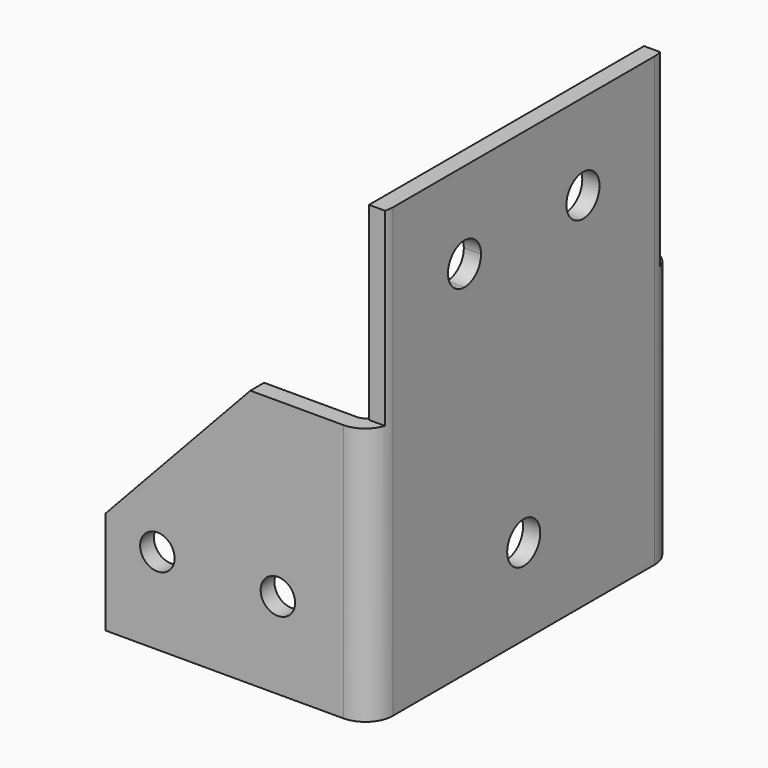
from build123d import *

# Parameters (mm, degrees)
F1_DEPTH  = 130
F3_DEPTH  = 25
F5_DEPTH  = 25
F6_R      = 5
F7_DEPTH  = 200
F8_R      = 6
F9_DEPTH  = 25
F11_DEPTH = 55
F12_R     = 6
F13_DEPTH = 25


with BuildPart() as f1:
    # F0 (on Top) → F1 (new body)
    with BuildSketch(Plane.XY):
        with BuildLine():
            Line((69, 0), (0, 0))
            Line((0, 0), (0, -5))
            Line((0, -5), (69, -5))
            ThreePointArc((69, -5), (71.1213203436, -5.8786796564), (72, -8))
            Line((72, -8), (72, -32.9701863229))
            Line((72, -32.9701863229), (72, -103))
            ThreePointArc((72, -103), (71.1213203436, -105.1213203436), (69, -106))
            Line((69, -106), (0, -106))
            Line((0, -106), (0, -111))
            Line((0, -111), (69, -111))
            ThreePointArc((69, -111), (74.6568542495, -108.6568542495), (77, -103))
            Line((77, -103), (77, -8))
            ThreePointArc((77, -8), (74.6568542495, -2.3431457505), (69, 0))
        make_face()
    extrude(amount=F1_DEPTH)

    # F2 (on face) → F3 (cut)
    with BuildSketch(Plane(origin=(0, 0, 0), x_dir=(-1, 0, 0), z_dir=(0, 1, 0))):
        Polygon((0, 30), (0, 130), (-72, 130), (-72, 75), (-42, 75), align=None)
    extrude(amount=-F3_DEPTH, mode=Mode.SUBTRACT)

    # F4 (on face) → F5 (cut)
    with BuildSketch(Plane.XZ.offset(111)):
        Polygon((72, 130), (0, 130), (0, 75), (0, 30), (42, 75), (72, 75), align=None)
    extrude(amount=-F5_DEPTH, mode=Mode.SUBTRACT)

    # F6 (on face) → F7 (cut)
    with BuildSketch(Plane(origin=(0, 0, 0), x_dir=(-1, 0, 0), z_dir=(0, 1, 0))):
        with Locations((-15, 25)):
            Circle(F6_R)
        with Locations((-50, 25)):
            Circle(F6_R)
    extrude(amount=-F7_DEPTH, mode=Mode.SUBTRACT)

    # F8 (on face) → F9 (cut)
    with BuildSketch(Plane.YZ.offset(77)):
        with Locations((-55.5, 25)):
            Circle(F8_R)
    extrude(amount=-F9_DEPTH, mode=Mode.SUBTRACT)

    # F10 (on face) → F11 (cut)
    with BuildSketch(Plane.XY.offset(130)):
        with BuildLine():
            Line((72, -5.5838015129), (76.6264005187, -5.5838015129))
            ThreePointArc((76.6264005187, -5.5838015129), (74.8719755616, -2.5667778433), (72, -0.5838015129))
            Line((72, -0.5838015129), (72, -5.5838015129))
        make_face()
        with BuildLine():
            ThreePointArc((72, -110.4161984871), (74.8719755616, -108.4332221567), (76.6264005187, -105.4161984871))
            Line((76.6264005187, -105.4161984871), (72, -105.4161984871))
            Line((72, -105.4161984871), (72, -110.4161984871))
        make_face()
    extrude(amount=-F11_DEPTH, mode=Mode.SUBTRACT)

    # F12 (on face) → F13 (cut)
    with BuildSketch(Plane.YZ.offset(77)):
        with BuildLine():
            ThreePointArc((-77, 99), (-72.7573593129, 100.7573593129), (-71, 105))
            ThreePointArc((-71, 105), (-81.2426406871, 109.2426406871), (-77, 99))
        make_face()
        with Locations((-34, 105)):
            Circle(F12_R)
    extrude(amount=-F13_DEPTH, mode=Mode.SUBTRACT)


solid = f1.part
